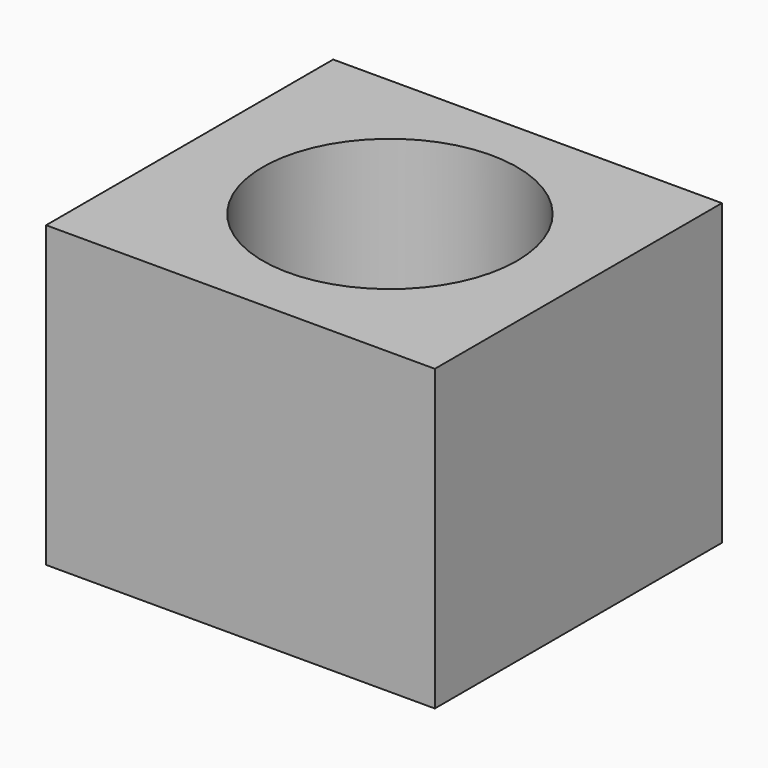
from build123d import *

# Parameters (mm, degrees)
F0_W     = 130
F0_H     = 120
F1_DEPTH = 50
F4_R     = 42.5
F5_DEPTH = 100


with BuildPart() as f1:
    # F0 (on Top) → F1 (new body)
    with BuildSketch(Plane.XY):
        with Locations((-1.133092, -1.057171)):
            Rectangle(F0_W, F0_H)
    extrude(amount=F1_DEPTH)

    # F2: F1 across face


with BuildPart() as f1_1:
    add(f1.part)
    add(f1.part.mirror(Plane(origin=(-1.133092, -1.057171, 0), x_dir=(1, 0, 0), z_dir=(0, 0, -1))))

    # F4 (on face) → F5 (cut)
    with BuildSketch(Plane.XY.offset(50)):
        Circle(F4_R)
    extrude(amount=-F5_DEPTH, mode=Mode.SUBTRACT)


solid = f1_1.part
